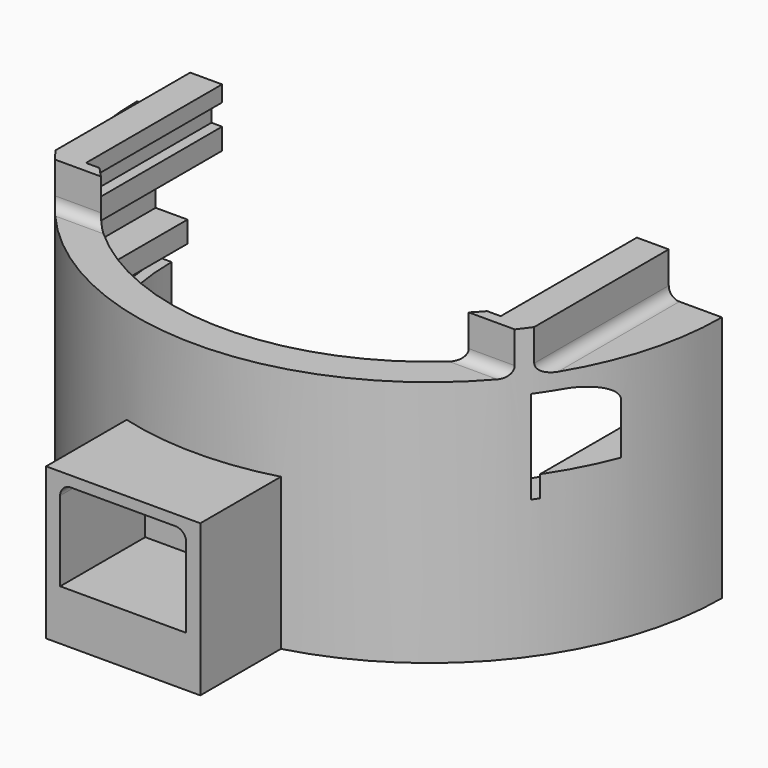
from build123d import *

# Parameters (mm, degrees)
SKETCH013_AS_DRAWN_W                      = 11.85
SKETCH013_AS_DRAWN_H                      = 8.5
EXTRUDE018_DEPTH                          = 2
EXTRUDE018_ONTO_SKETCH013_ROLL_ANGLE      = 90
SKETCH009_AS_DRAWN_W                      = 11.85
SKETCH009_AS_DRAWN_H                      = 8.5
EXTRUDE017_DEPTH                          = 10
EXTRUDE017_ONTO_SKETCH009_ROLL_ANGLE      = 90
SKETCH012_AS_DRAWN_W                      = 14.5
SKETCH012_AS_DRAWN_H                      = 14.25
EXTRUDE016_DEPTH                          = 10
EXTRUDE016_ONTO_SKETCH012_ROLL_ANGLE      = 90
SKETCH010_AS_DRAWN_W                      = 9
SKETCH010_AS_DRAWN_H                      = 4
EXTRUDE015_DEPTH                          = 30
EXTRUDE015_ONTO_SKETCH010_ROLL_ANGLE      = 90
SKETCH011_AS_DRAWN_W                      = 11.5
SKETCH011_AS_DRAWN_H                      = 5
EXTRUDE014_DEPTH                          = 8
EXTRUDE014_ONTO_SKETCH011_ROLL_ANGLE      = 90
EXTRUDE013_DEPTH                          = 20
SKETCH006_AS_DRAWN_W                      = 3
SKETCH006_AS_DRAWN_H                      = 2
EXTRUDE011_DEPTH                          = 3
EXTRUDE011_ONTO_SKETCH006_ROLL_ANGLE      = 90
EXTRUDE011_ONTO_SKETCH006_PLACEMENT_ANGLE = 180
EXTRUDE010_DEPTH                          = 4
EXTRUDE008_DEPTH                          = 16
EXTRUDE008_ONTO_SKETCH004_ROLL_ANGLE      = 90
EXTRUDE008_ONTO_SKETCH004_PLACEMENT_ANGLE = 180
EXTRUDE002_DEPTH                          = 1.25
EXTRUDE_DEPTH                             = 4
EXTRUDE004_DEPTH                          = 18.25
EXTRUDE012_DEPTH                          = 9
FILLET_R                                  = 1
FILLET001_R                               = 1
FILLET002_R                               = 2
FILLET003_R                               = 2
FILLET004_R                               = 1
FILLET005_R                               = 2
FILLET006_R                               = 1


with BuildPart() as extrude018:
    # Sketch013 as drawn → Extrude018 (new)
    with BuildSketch(Plane.XY):
        Rectangle(SKETCH013_AS_DRAWN_W, SKETCH013_AS_DRAWN_H)
    extrude(amount=-EXTRUDE018_DEPTH)


with BuildPart() as extrude018_1:
    # Extrude018 onto Sketch013 roll: moved
    add(extrude018.part.rotate(Axis((0, 0, 0), (1, 0, 0)), EXTRUDE018_ONTO_SKETCH013_ROLL_ANGLE))


with BuildPart() as extrude018_2:
    # Extrude018 onto Sketch013 placement: moved
    add(extrude018_1.part.moved(Location((0, -28, 0))))


with BuildPart() as extrude017:
    # Sketch009 as drawn → Extrude017 (new)
    with BuildSketch(Plane.XY):
        Rectangle(SKETCH009_AS_DRAWN_W, SKETCH009_AS_DRAWN_H)
    extrude(amount=EXTRUDE017_DEPTH)


with BuildPart() as extrude017_1:
    # Extrude017 onto Sketch009 roll: moved
    add(extrude017.part.rotate(Axis((0, 0, 0), (1, 0, 0)), EXTRUDE017_ONTO_SKETCH009_ROLL_ANGLE))


with BuildPart() as extrude017_2:
    # Extrude017 onto Sketch009 placement: moved
    add(extrude017_1.part.moved(Location((0, -26, 0))))


with BuildPart() as cut006:
    # Sketch012 as drawn → Extrude016 (new)
    with BuildSketch(Plane.XY):
        with Locations((0, -1.875)):
            Rectangle(SKETCH012_AS_DRAWN_W, SKETCH012_AS_DRAWN_H)
    extrude(amount=EXTRUDE016_DEPTH)


with BuildPart() as cut006_1:
    # Extrude016 onto Sketch012 roll: moved
    add(cut006.part.rotate(Axis((0, 0, 0), (1, 0, 0)), EXTRUDE016_ONTO_SKETCH012_ROLL_ANGLE))


with BuildPart() as cut006_2:
    # Extrude016 onto Sketch012 placement: moved
    add(cut006_1.part.moved(Location((0, -26, 0))))

    # Cut006: cut Extrude017
    add(extrude017_2.part, mode=Mode.SUBTRACT)


with BuildPart() as extrude015:
    # Sketch010 as drawn → Extrude015 (new)
    with BuildSketch(Plane.XY):
        Rectangle(SKETCH010_AS_DRAWN_W, SKETCH010_AS_DRAWN_H)
    extrude(amount=EXTRUDE015_DEPTH)


with BuildPart() as extrude015_1:
    # Extrude015 onto Sketch010 roll: moved
    add(extrude015.part.rotate(Axis((0, 0, 0), (1, 0, 0)), EXTRUDE015_ONTO_SKETCH010_ROLL_ANGLE))


with BuildPart() as extrude015_2:
    # Extrude015 onto Sketch010 placement: moved
    add(extrude015_1.part)


with BuildPart() as extrude014:
    # Sketch011 as drawn → Extrude014 (new)
    with BuildSketch(Plane.XY):
        with Locations((0, -0.5)):
            Rectangle(SKETCH011_AS_DRAWN_W, SKETCH011_AS_DRAWN_H)
    extrude(amount=EXTRUDE014_DEPTH)


with BuildPart() as extrude014_1:
    # Extrude014 onto Sketch011 roll: moved
    add(extrude014.part.rotate(Axis((0, 0, 0), (1, 0, 0)), EXTRUDE014_ONTO_SKETCH011_ROLL_ANGLE))


with BuildPart() as extrude014_2:
    # Extrude014 onto Sketch011 placement: moved
    add(extrude014_1.part.moved(Location((0, -18, 0))))


with BuildPart() as extrude013:
    # Sketch008 → Extrude013 (new body)
    with BuildSketch(Plane.XY):
        with BuildLine():
            ThreePointArc((-19.054199, -15), (0, -24.25), (19.054199, -15))
            Line((-19.054199, -15), (19.054199, -15))
        make_face()
    extrude(amount=EXTRUDE013_DEPTH)


with BuildPart() as extrude011:
    # Sketch006 as drawn → Extrude011 (new)
    with BuildSketch(Plane.XY):
        with Locations((26.45538, 9.53866)):
            Rectangle(SKETCH006_AS_DRAWN_W, SKETCH006_AS_DRAWN_H)
    extrude(amount=-EXTRUDE011_DEPTH)


with BuildPart() as extrude011_1:
    # Extrude011 onto Sketch006 roll: moved
    add(extrude011.part.rotate(Axis((0, 0, 0), (1, 0, 0)), EXTRUDE011_ONTO_SKETCH006_ROLL_ANGLE))


with BuildPart() as extrude011_2:
    # Extrude011 onto Sketch006 placement: moved
    add(extrude011_1.part.rotate(Axis((0, 0, 0), (0, 0, 1)), EXTRUDE011_ONTO_SKETCH006_PLACEMENT_ANGLE))


with BuildPart() as extrude010:
    # Sketch005 → Extrude010 (new body)
    with BuildSketch(Plane.XY.offset(18.25)):
        with BuildLine():
            ThreePointArc((-30, 0), (0, -30), (30, 0))
            Line((22.5, 0), (30, 0))
            Line((22.5, -17), (22.5, 0))
            Line((-22.5, -17), (22.5, -17))
            Line((-22.5, 0), (-22.5, -17))
            Line((-30, 0), (-22.5, 0))
        make_face()
    extrude(amount=-EXTRUDE010_DEPTH)


with BuildPart() as extrude008:
    # Sketch004 as drawn → Extrude008 (new)
    with BuildSketch(Plane.XY):
        Polygon((-22.75, 4), (22.75, 4), (22.75, 6), (25.75, 6), (25.75, 12.75), (19.5, 12.75), (19.5, 14.75), (20.5, 14.75), (20.5, 16.75), (19.5, 16.75), (19.5, 18.25), (-19.5, 18.25), (-19.5, 16.75), (-20.5, 16.75), (-20.5, 14.75), (-19.5, 14.75), (-19.5, 12.75), (-25.75, 12.75), (-25.75, 6), (-22.75, 6), align=None)
    extrude(amount=-EXTRUDE008_DEPTH)


with BuildPart() as extrude008_1:
    # Extrude008 onto Sketch004 roll: moved
    add(extrude008.part.rotate(Axis((0, 0, 0), (1, 0, 0)), EXTRUDE008_ONTO_SKETCH004_ROLL_ANGLE))


with BuildPart() as extrude008_2:
    # Extrude008 onto Sketch004 placement: moved
    add(extrude008_1.part.rotate(Axis((0, 0, 0), (0, 0, 1)), EXTRUDE008_ONTO_SKETCH004_PLACEMENT_ANGLE))


with BuildPart() as extrude002:
    # Sketch003 → Extrude002 (new body)
    with BuildSketch(Plane.XY.offset(2)):
        with BuildLine():
            ThreePointArc((-25.25, 0), (0, -25.25), (25.25, 0))
            Line((-25.25, 0), (25.25, 0))
        make_face()
    extrude(amount=EXTRUDE002_DEPTH)


with BuildPart() as obj1:
    # Sketch002 → Extrude (new body)
    with BuildSketch(Plane.XY):
        with BuildLine():
            ThreePointArc((-24.25, 0), (0, -24.25), (24.25, 0))
            Line((-24.25, 0), (24.25, 0))
        make_face()
    extrude(amount=EXTRUDE_DEPTH)

    # Fusion: union Extrude002
    add(extrude002.part)


with BuildPart() as cut003:
    # Sketch001 → Extrude004 (new body)
    with BuildSketch(Plane.XY):
        with BuildLine():
            ThreePointArc((-27.5, 0), (0, -27.5), (27.5, 0))
            Line((-27.5, 0), (27.5, 0))
        make_face()
    extrude(amount=EXTRUDE004_DEPTH)

    # Cut: cut obj1
    add(obj1.part, mode=Mode.SUBTRACT)

    # Cut001: cut Extrude008
    add(extrude008_2.part, mode=Mode.SUBTRACT)

    # Cut002: cut Extrude010
    add(extrude010.part, mode=Mode.SUBTRACT)

    # Cut003: cut Extrude011
    add(extrude011_2.part, mode=Mode.SUBTRACT)


with BuildPart() as fillet006:
    # Sketch007 → Extrude012 (new body)
    with BuildSketch(Plane.XY):
        with BuildLine():
            ThreePointArc((-27.5, 0), (0, -27.5), (27.5, 0))
            Line((24.25, 0), (27.5, 0))
            ThreePointArc((-24.25, 0), (0, -24.25), (24.25, 0))
            Line((-27.5, 0), (-24.25, 0))
        make_face()
    extrude(amount=-EXTRUDE012_DEPTH)

    # Fusion001: union Cut003
    add(cut003.part)

    # Cut004: cut Extrude013
    add(extrude013.part, mode=Mode.SUBTRACT)

    # Fillet
    fillet_edges = [fillet006.edges().sort_by_distance(p)[0] for p in [
        (-19.454695, -17, 14.25),
        (19.454695, -17, 14.25),
    ]]
    fillet(fillet_edges, radius=FILLET_R)

    # Fillet001
    fillet001_edges = [fillet006.edges().sort_by_distance(p)[0] for p in [
        (-22.5, -7.905694, 14.25),
        (22.5, -7.905694, 14.25),
    ]]
    fillet(fillet001_edges, radius=FILLET001_R)

    # Fillet002
    fillet002_edges = [fillet006.edges().sort_by_distance(p)[0] for p in [
        (25.75, -4.826684, 12.75),
    ]]
    fillet(fillet002_edges, radius=FILLET002_R)

    # Fillet003
    fillet003_edges = [fillet006.edges().sort_by_distance(p)[0] for p in [
        (-25.75, -4.826684, 12.75),
    ]]
    fillet(fillet003_edges, radius=FILLET003_R)

    # Fusion002: union Extrude014
    add(extrude014_2.part)

    # Cut005: cut Extrude015
    add(extrude015_2.part, mode=Mode.SUBTRACT)

    # Fusion003: union Cut006
    add(cut006_2.part)

    # Cut007: cut Extrude018
    add(extrude018_2.part, mode=Mode.SUBTRACT)

    # Fillet004
    fillet004_edges = [fillet006.edges().sort_by_distance(p)[0] for p in [
        (4.5, -22, -2),
        (-4.5, -22, -2),
    ]]
    fillet(fillet004_edges, radius=FILLET004_R)

    # Fillet005
    fillet005_edges = [fillet006.edges().sort_by_distance(p)[0] for p in [
        (0, -24.25, -3),
    ]]
    fillet(fillet005_edges, radius=FILLET005_R)

    # Fillet006
    fillet006_edges = [fillet006.edges().sort_by_distance(p)[0] for p in [
        (5.925, -32, 4.25),
        (-5.925, -32, 4.25),
    ]]
    fillet(fillet006_edges, radius=FILLET006_R)


solid = fillet006.part
